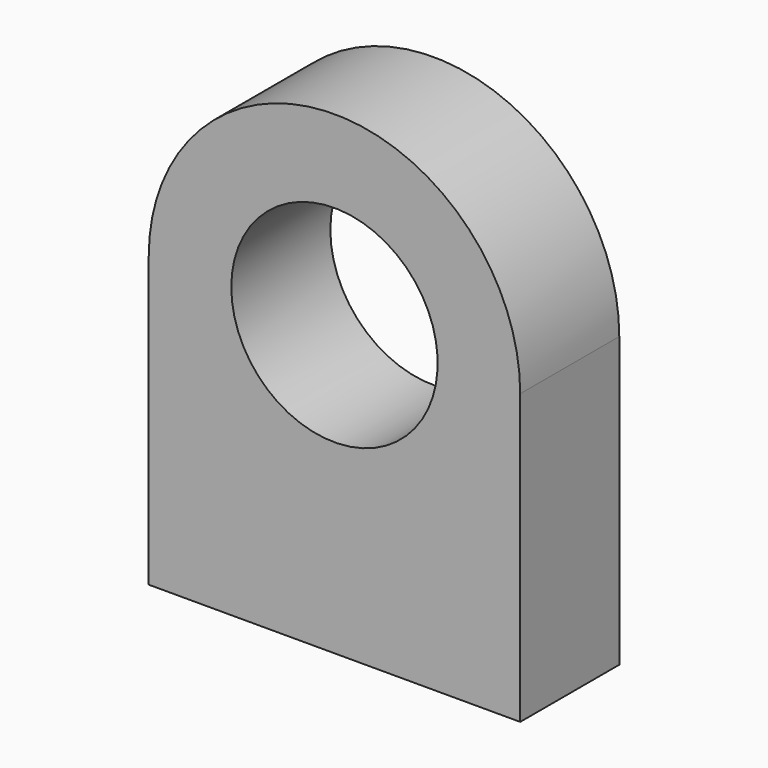
from build123d import *

# Parameters (mm, degrees)
F1_DEPTH = 15


with BuildPart() as f1:
    # F0 (on Front) → F1 (new body)
    with BuildSketch(Plane.XZ):
        with BuildLine():
            Line((0, 35), (0, 0))
            Line((0, 0), (45, 0))
            Line((45, 0), (45, 35))
            Line((45, 35), (35, 35))
            ThreePointArc((35, 35), (22.5, 22.5), (10, 35))
            Line((10, 35), (0, 35))
        make_face()
        with BuildLine():
            ThreePointArc((45, 35), (22.5, 57.5), (0, 35))
            Line((0, 35), (10, 35))
            ThreePointArc((10, 35), (22.5, 47.5), (35, 35))
            Line((35, 35), (45, 35))
        make_face()
    extrude(amount=F1_DEPTH)


solid = f1.part
